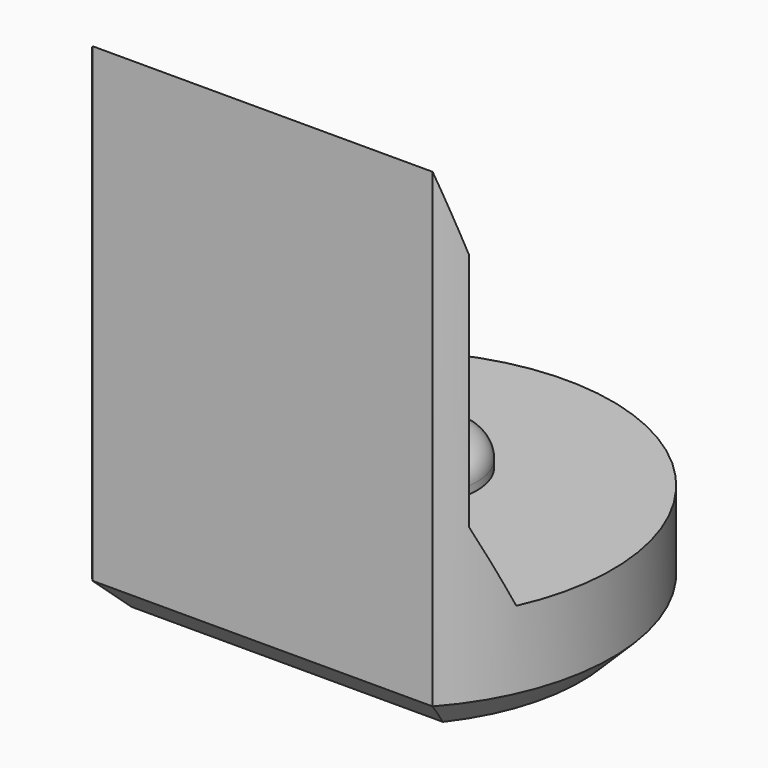
from build123d import *

# Parameters (mm, degrees)
PAD008_DEPTH         = 6.5
POCKET007_DEPTH      = 2.951
POCKET007_DEPTH_BACK = 2.951
SKETCH023_R          = 0.8
PAD009_DEPTH         = 0.4
FILLET001_R          = 0.3
CHAMFER007_SIZE      = 0.4


with BuildPart() as part:
    # Sketch022 → Pad008 (new body)
    with BuildSketch(Plane.XY):
        with BuildLine():
            ThreePointArc((2.2, -1.9653244007), (0, 2.95), (-2.2, -1.9653244007))
            Line((-2.2, -1.9653244007), (2.2, -1.9653244007))
        make_face()
    extrude(amount=PAD008_DEPTH)

    # Sketch024 → Pocket007 (cut, two sides)
    with BuildSketch(Plane.YZ) as pocket007_sk:
        Polygon((-1.97, 6.5), (-1.67, 5.5), (-1.67, 2.4), (-1.22, 1.4), (4, 1.4), (4, 6.5), align=None)
    extrude(amount=-POCKET007_DEPTH, mode=Mode.SUBTRACT)
    extrude(pocket007_sk.sketch, amount=POCKET007_DEPTH_BACK, mode=Mode.SUBTRACT)

    # Sketch023 (on Face7 of Pocket007) → Pad009 (join)
    with BuildSketch(Plane.XY.offset(1.4)):
        with Locations((0, 0.5)):
            Circle(SKETCH023_R)
    extrude(amount=PAD009_DEPTH)

    # Fillet001
    fillet001_edges = [part.edges().sort_by_distance(p)[0] for p in [
        (-0.8, 0.5, 1.8),
    ]]
    fillet(fillet001_edges, radius=FILLET001_R)

    # Chamfer007
    chamfer007_edges = [part.edges().sort_by_distance(p)[0] for p in [
        (0, 2.95, 0),
        (0, -1.965324, 0),
    ]]
    chamfer(chamfer007_edges, length=CHAMFER007_SIZE)


with BuildPart() as part_1:
    # Body082 placement: moved
    add(part.part.moved(Location((0, 12, 0))))


solid = part_1.part
